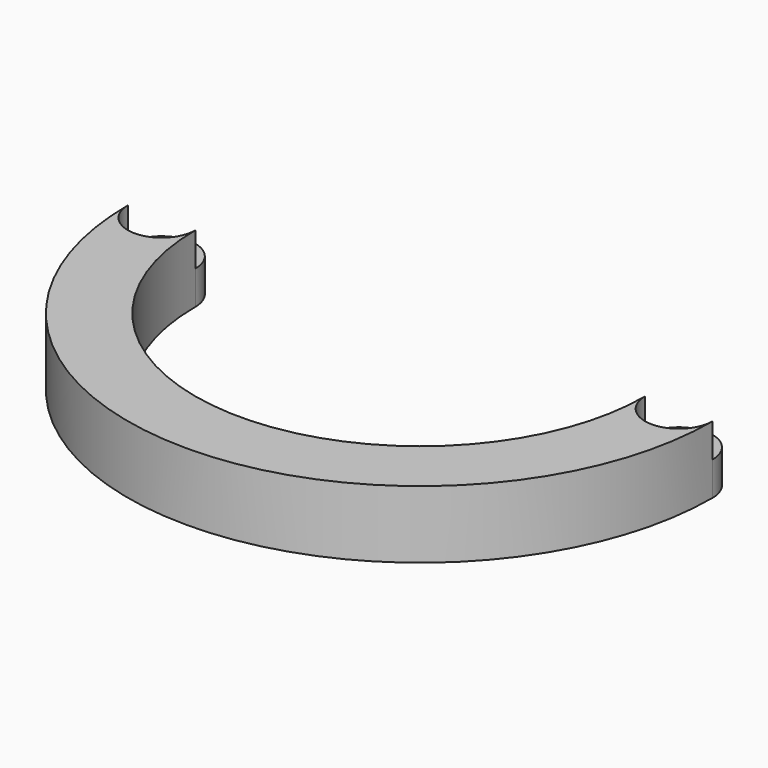
from build123d import *

# Parameters (mm, degrees)
SKETCH001_R   = 15
SKETCH001_R_2 = 10
PAD001_DEPTH  = 15
PAD_DEPTH     = 30
POCKET_DEPTH  = 30
SKETCH003_R   = 15
SKETCH003_R_2 = 10
PAD002_DEPTH  = 15


with BuildPart() as pad001:
    # Sketch001 → Pad001 (new body)
    with BuildSketch(Plane.XY):
        with Locations((-115, 0)):
            Circle(SKETCH001_R)
        with Locations((-115, 0)):
            Circle(SKETCH001_R_2, mode=Mode.SUBTRACT)
        with Locations((115, 0)):
            Circle(SKETCH001_R)
        with Locations((115, 0)):
            Circle(SKETCH001_R_2, mode=Mode.SUBTRACT)
    extrude(amount=PAD001_DEPTH)


with BuildPart() as pocket:
    # Sketch → Pad (new body)
    with BuildSketch(Plane.XY):
        with BuildLine():
            ThreePointArc((-100, -4.2e-05), (2.1e-05, -100), (100, 0))
            Line((100, 0), (130, 0))
            ThreePointArc((-130, -4.2e-05), (2.1e-05, -130), (130, 0))
            Line((-130, -4.2e-05), (-100, -4.2e-05))
        make_face()
    extrude(amount=PAD_DEPTH)

    # Sketch002 → Pocket (cut)
    with BuildSketch(Plane.XY.offset(30)):
        with BuildLine():
            ThreePointArc((-130, 0), (-115, -15), (-100, 0))
            Line((-100, 0), (-130, 0))
        make_face()
        with BuildLine():
            ThreePointArc((100, 0), (115, -15), (130, 0))
            Line((100, 0), (130, 0))
        make_face()
    extrude(amount=-POCKET_DEPTH, mode=Mode.SUBTRACT)


with BuildPart() as pad002:
    # Sketch003 → Pad002 (new body)
    with BuildSketch(Plane.XY):
        with Locations((-115, 0)):
            Circle(SKETCH003_R)
        with Locations((-115, 0)):
            Circle(SKETCH003_R_2, mode=Mode.SUBTRACT)
        with Locations((115, 0)):
            Circle(SKETCH003_R)
        with Locations((115, 0)):
            Circle(SKETCH003_R_2, mode=Mode.SUBTRACT)
    extrude(amount=PAD002_DEPTH)


solid = Compound([pad001.part, pocket.part, pad002.part])
